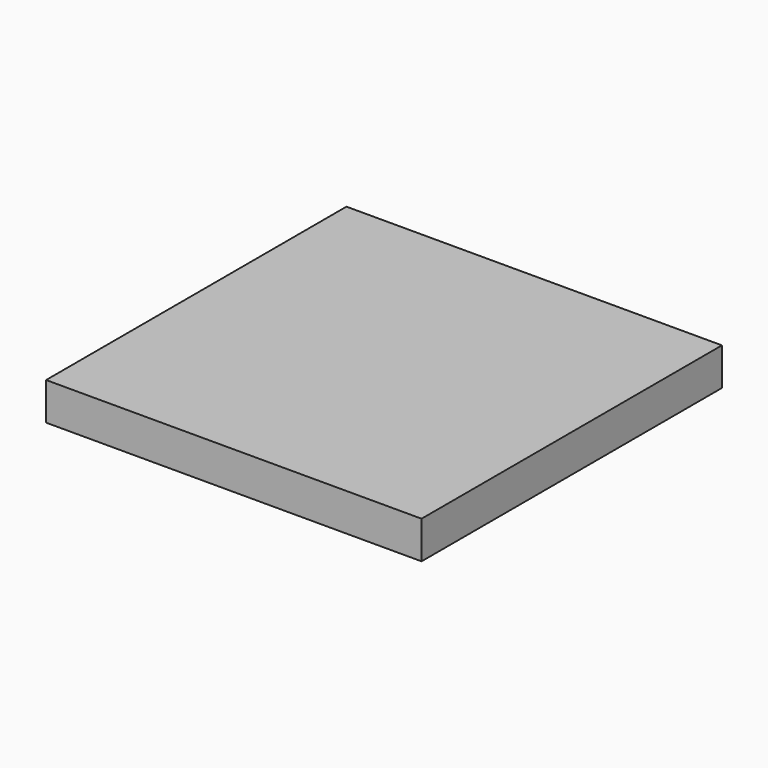
from build123d import *

# Parameters (mm, degrees)
F0_W     = 1524
F0_H     = 1524
F1_DEPTH = 152.4
F2_R     = 88.9
F3_DEPTH = 2.54


with BuildPart() as f1:
    # F0 (on Top) → F1 (new body)
    with BuildSketch(Plane.XY):
        Rectangle(F0_W, F0_H)
    extrude(amount=-F1_DEPTH)

    # F2 (on face) → F3 (cut)
    with BuildSketch(Plane.XY):
        with Locations((-1320.8, 0)):
            Circle(F2_R)
    extrude(amount=-F3_DEPTH, mode=Mode.SUBTRACT)


solid = f1.part
